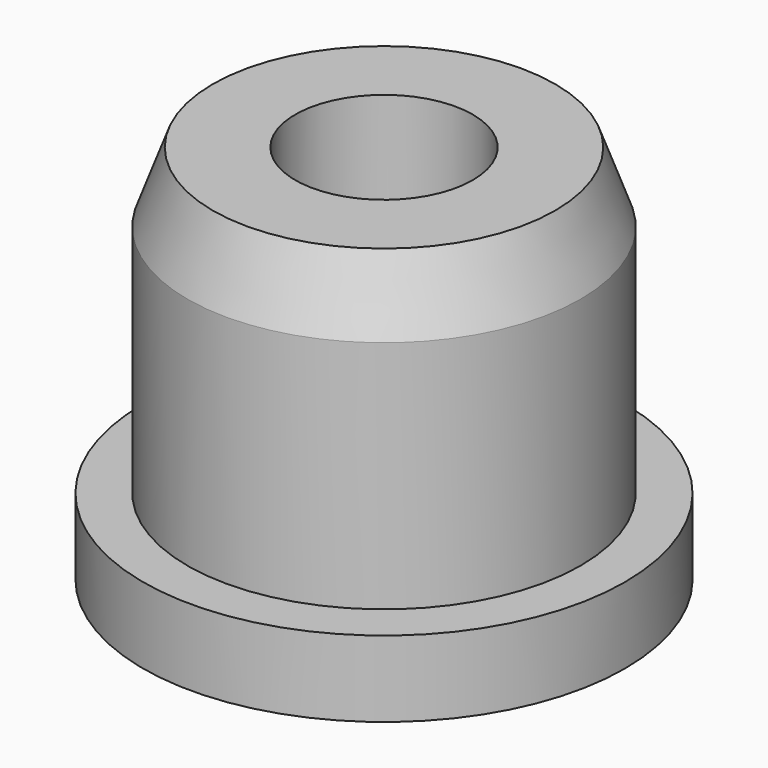
from build123d import *

# Parameters (mm, degrees)
F0_R     = 9.5
F0_R_2   = 7.75
F1_DEPTH = 3
F0_R_3   = 3.5
F2_DEPTH = 15
F0_R_4   = 1.75
F3_DEPTH = 5
F4_SIZE2 = 2.747477
F4_SIZE  = 1


with BuildPart() as f1:
    # F0 (on Top) → F1 (new body)
    with BuildSketch(Plane.XY):
        Circle(F0_R)
        Circle(F0_R_2, mode=Mode.SUBTRACT)
    extrude(amount=F1_DEPTH)

    # F0 (on Top) → F2 (join)
    with BuildSketch(Plane.XY):
        Circle(F0_R_2)
        Circle(F0_R_3, mode=Mode.SUBTRACT)
    extrude(amount=F2_DEPTH)

    # F0 (on Top) → F3 (join)
    with BuildSketch(Plane.XY):
        Circle(F0_R_3)
        Circle(F0_R_4, mode=Mode.SUBTRACT)
    extrude(amount=F3_DEPTH)

    # F4
    f4_edges = [f1.edges().sort_by_distance(p)[0] for p in [
        (-7.75, 0, 15),
    ]]
    chamfer(f4_edges, length=F4_SIZE, length2=F4_SIZE2)


solid = f1.part
